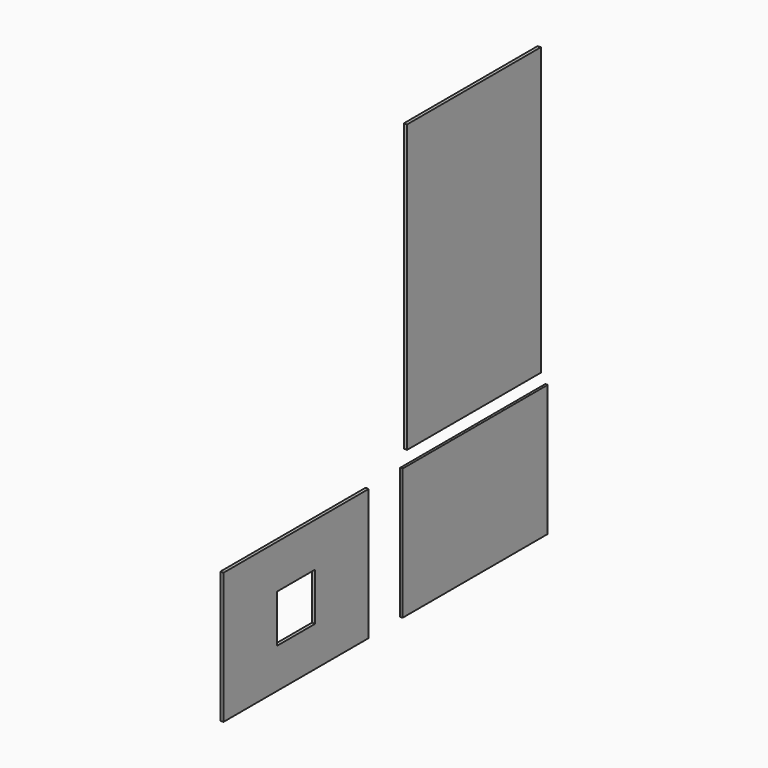
from build123d import *

# Parameters (mm, degrees)
F0_W     = 1140
F0_H     = 825
F0_W_2   = 300
F0_H_2   = 300
F1_DEPTH = 20
F2_W     = 1140
F2_H     = 825
F3_DEPTH = 15
F4_W     = 1050
F4_H     = 1800
F5_DEPTH = 20


with BuildPart() as f1:
    # F0 (on Right) → F1 (new body)
    with BuildSketch(Plane.YZ):
        with Locations((570, 412.5)):
            Rectangle(F0_W, F0_H)
        with Locations((570, 400)):
            Rectangle(F0_W_2, F0_H_2, mode=Mode.SUBTRACT)
    extrude(amount=F1_DEPTH)


with BuildPart() as f3:
    # F2 (on Right) → F3 (new body)
    with BuildSketch(Plane.YZ):
        with Locations((1981.942606, 412.5)):
            Rectangle(F2_W, F2_H)
    extrude(amount=F3_DEPTH)


with BuildPart() as f5:
    # F4 (on Right) → F5 (new body)
    with BuildSketch(Plane.YZ):
        with Locations((1966.667557, 1818.301301)):
            Rectangle(F4_W, F4_H)
    extrude(amount=F5_DEPTH)


solid = Compound([f1.part, f3.part, f5.part])
